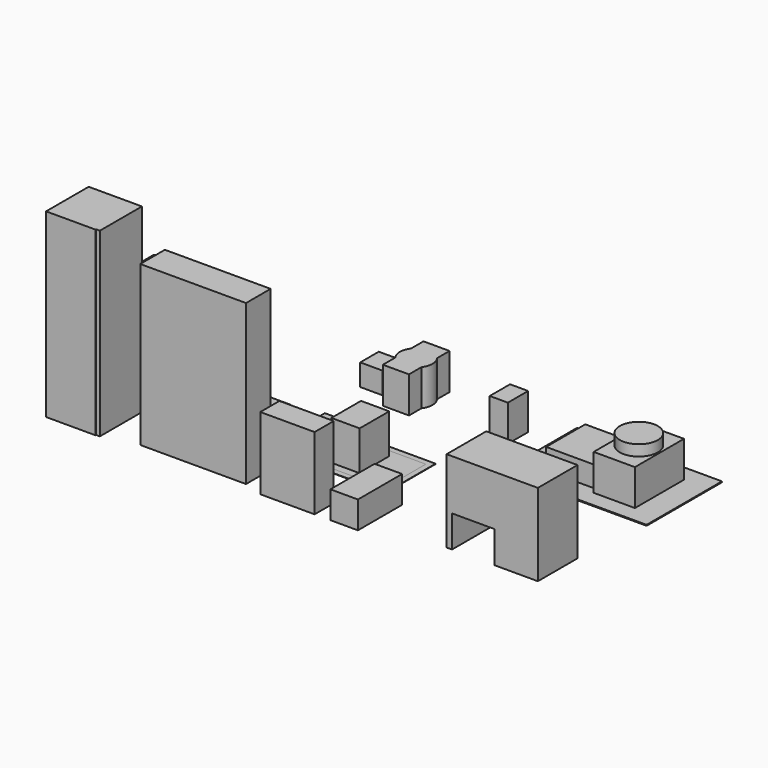
from build123d import *

# Parameters (mm, degrees)
F2_DEPTH  = 5000
F1_W      = 2920
F1_H      = 850
F3_DEPTH  = 4400
F1_W_2    = 1500
F1_H_2    = 660
F4_DEPTH  = 2000
F1_W_3    = 780
F1_H_3    = 1020
F5_DEPTH  = 1100
F1_W_4    = 760
F1_H_4    = 1525
F6_DEPTH  = 750
F7_DEPTH  = 1000
F1_W_5    = 500
F1_H_5    = 700
F8_DEPTH  = 1000
F1_W_6    = 620
F1_H_6    = 640
F9_DEPTH  = 600
F1_W_7    = 600
F1_H_7    = 1700
F10_DEPTH = 2200
F1_W_8    = 800
F1_H_8    = 600
F11_DEPTH = 1800
F1_H_9    = 1500
F12_DEPTH = 10
F1_W_9    = 1200
F1_H_10   = 1170
F13_DEPTH = 150
F1_W_10   = 3230
F1_H_11   = 1720
F1_W_11   = 2930
F1_H_12   = 1420
F14_DEPTH = 10
F1_W_12   = 650
F1_H_13   = 650
F15_DEPTH = 10
F16_W     = 1138
F16_H     = 1693
F16_R     = 525
F17_DEPTH = 1020
F18_DEPTH = 1320
F16_W_2   = 1400
F16_H_2   = 1350
F19_DEPTH = 600
F16_W_3   = 4000
F16_H_3   = 2600
F20_DEPTH = 25
F21_W     = 2520
F21_H     = 1368
F22_DEPTH = 2269
F23_W     = 1170
F23_H     = 879
F24_DEPTH = 1368
F25_DEPTH = 600


with BuildPart() as f2:
    # F1 (on face) → F2 (new body)
    with BuildSketch(Plane.XY):
        Polygon((330, 1451), (330, -19), (1700, -19), (1700, 0), (1800, 0), (1800, 1451), align=None)
    extrude(amount=F2_DEPTH)


with BuildPart() as f3:
    # F1 (on face) → F3 (new body)
    with BuildSketch(Plane.XY):
        with Locations((4191, 655)):
            Rectangle(F1_W, F1_H)
    extrude(amount=F3_DEPTH)


with BuildPart() as f4:
    # F1 (on face) → F4 (new body)
    with BuildSketch(Plane.XY):
        with Locations((6939, 380)):
            Rectangle(F1_W_2, F1_H_2)
    extrude(amount=F4_DEPTH)


with BuildPart() as f5:
    # F1 (on face) → F5 (new body)
    with BuildSketch(Plane.XY):
        with Locations((6870, 2652)):
            Rectangle(F1_W_3, F1_H_3)
    extrude(amount=F5_DEPTH)


with BuildPart() as f6:
    # F1 (on face) → F6 (new body)
    with BuildSketch(Plane.XY):
        with Locations((8505, 812.5)):
            Rectangle(F1_W_4, F1_H_4)
    extrude(amount=F6_DEPTH)


with BuildPart() as f7:
    # F1 (on face) → F7 (new body)
    with BuildSketch(Plane.XY):
        with BuildLine():
            ThreePointArc((6395, 5895), (6035, 6075), (5675, 5895))
            Line((5675, 5895), (5675, 5355))
            ThreePointArc((5675, 5355), (6035, 5175), (6395, 5355))
            Line((6395, 5355), (6395, 5895))
        make_face()
        with BuildLine():
            ThreePointArc((6395, 5355), (6035, 5175), (5675, 5355))
            Line((5675, 5355), (5675, 4925))
            Line((5675, 4925), (6395, 4925))
            Line((6395, 4925), (6395, 5355))
        make_face()
        with BuildLine():
            Line((6395, 6325), (5675, 6325))
            Line((5675, 6325), (5675, 5895))
            ThreePointArc((5675, 5895), (6035, 6075), (6395, 5895))
            Line((6395, 5895), (6395, 6325))
        make_face()
        with BuildLine():
            ThreePointArc((6485, 5625), (6461.9074841227, 5767.3024947076), (6395, 5895))
            Line((6395, 5895), (6395, 5355))
            ThreePointArc((6395, 5355), (6461.9074841227, 5482.6975052924), (6485, 5625))
        make_face()
        with BuildLine():
            Line((5675, 5355), (5675, 5895))
            ThreePointArc((5675, 5895), (5585, 5625), (5675, 5355))
        make_face()
    extrude(amount=F7_DEPTH)


with BuildPart() as f8:
    # F1 (on face) → F8 (new body)
    with BuildSketch(Plane.XY):
        with Locations((8635, 5575)):
            Rectangle(F1_W_5, F1_H_5)
    extrude(amount=F8_DEPTH)


with BuildPart() as f9:
    # F1 (on face) → F9 (new body)
    with BuildSketch(Plane.XY):
        with Locations((5055, 5625)):
            Rectangle(F1_W_6, F1_H_6)
    extrude(amount=F9_DEPTH)


with BuildPart() as f10:
    # F1 (on face) → F10 (new body)
    with BuildSketch(Plane.XY):
        with Locations((350, 3201)):
            Rectangle(F1_W_7, F1_H_7)
    extrude(amount=F10_DEPTH)


with BuildPart() as f11:
    # F1 (on face) → F11 (new body)
    with BuildSketch(Plane.XY):
        with Locations((450, 1951)):
            Rectangle(F1_W_8, F1_H_8)
    extrude(amount=F11_DEPTH)


with BuildPart() as f12:
    # F1 (on face) → F12 (new body)
    with BuildSketch(Plane.XY):
        with Locations((3350, 2959)):
            Rectangle(F1_W_2, F1_H_9)
    extrude(amount=F12_DEPTH)


with BuildPart() as f13:
    # F1 (on face) → F13 (new body)
    with BuildSketch(Plane.XY):
        with Locations((650, 4936)):
            Rectangle(F1_W_9, F1_H_10)
    extrude(amount=F13_DEPTH)


with BuildPart() as f14:
    # F1 (on face) → F14 (new body)
    with BuildSketch(Plane.XY):
        with Locations((6645, 2652)):
            Rectangle(F1_W_10, F1_H_11)
        with Locations((6645, 2652)):
            Rectangle(F1_W_11, F1_H_12, mode=Mode.SUBTRACT)
    extrude(amount=F14_DEPTH)


with BuildPart() as f15:
    # F1 (on face) → F15 (new body)
    with BuildSketch(Plane.XY):
        with Locations((6645, 2652)):
            Rectangle(F1_W_11, F1_H_12)
        with Locations((5955, 2652)):
            Rectangle(F1_W_12, F1_H_13, mode=Mode.SUBTRACT)
        with Locations((6870, 2652)):
            Rectangle(F1_W_3, F1_H_3, mode=Mode.SUBTRACT)
    extrude(amount=F15_DEPTH)

    # F1 (on face) → F25 (join)
    with BuildSketch(Plane.XY):
        with Locations((5955, 2652)):
            Rectangle(F1_W_12, F1_H_13)
    extrude(amount=F25_DEPTH)


with BuildPart() as f17:
    # F16 (on face) → F17 (new body)
    with BuildSketch(Plane.XY):
        with Locations((12359.4055175781, 5402.5650024414)):
            Rectangle(F16_W, F16_H)
        with Locations((12359.4055175781, 5402.5650024414)):
            Circle(F16_R, mode=Mode.SUBTRACT)
    extrude(amount=F17_DEPTH)

    # F16 (on face) → F18 (join)
    with BuildSketch(Plane.XY):
        with Locations((12359.4055175781, 5402.5650024414)):
            Circle(F16_R)
    extrude(amount=F18_DEPTH)


with BuildPart() as f19:
    # F16 (on face) → F19 (new body)
    with BuildSketch(Plane.XY):
        with Locations((11040.4055175781, 5402.5650024414)):
            Rectangle(F16_W_2, F16_H_2)
    extrude(amount=F19_DEPTH)


with BuildPart() as f20:
    # F16 (on face) → F20 (new body)
    with BuildSketch(Plane.XY):
        with Locations((11613.6159896851, 5402.5650024414)):
            Rectangle(F16_W_3, F16_H_3)
        with Locations((11040.4055175781, 5402.5650024414)):
            Rectangle(F16_W_2, F16_H_2, mode=Mode.SUBTRACT)
        with Locations((12359.4055175781, 5402.5650024414)):
            Rectangle(F16_W, F16_H, mode=Mode.SUBTRACT)
    extrude(amount=F20_DEPTH)


with BuildPart() as f22:
    # F21 (on face) → F22 (new body)
    with BuildSketch(Plane.XY):
        with Locations((12139.1763687134, 1301.8739210856)):
            Rectangle(F21_W, F21_H)
    extrude(amount=F22_DEPTH)

    # F23 (on face) → F24 (cut, through all)
    with BuildSketch(Plane.XZ.offset(-617.8739210856)):
        with Locations((11614.1763687134, 439.5)):
            Rectangle(F23_W, F23_H)
    extrude(amount=-F24_DEPTH, mode=Mode.SUBTRACT)


solid = Compound([f2.part, f3.part, f4.part, f5.part, f6.part, f7.part, f8.part, f9.part, f10.part, f11.part, f12.part, f13.part, f14.part, f15.part, f17.part, f19.part, f20.part, f22.part])
